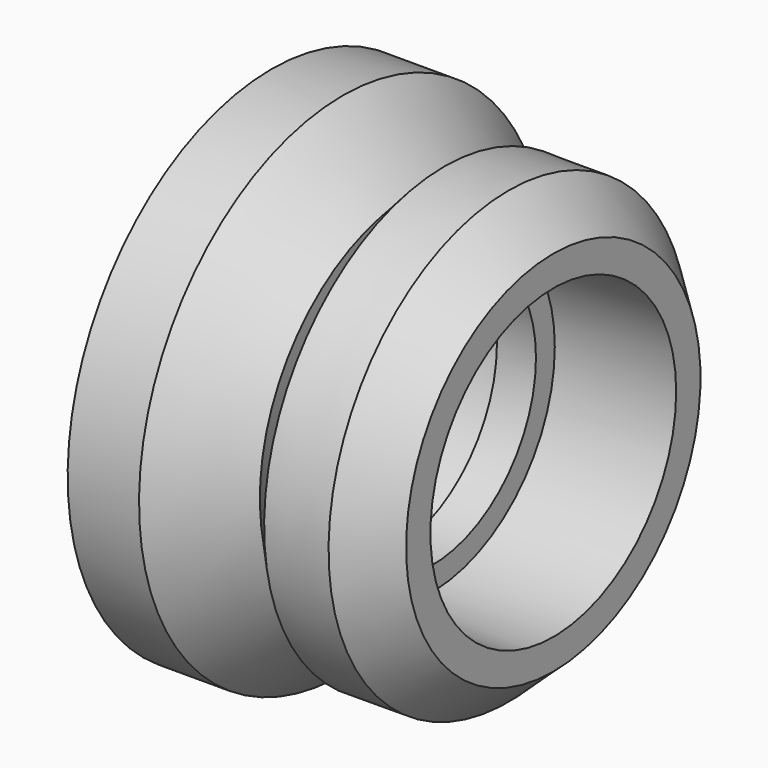
from build123d import *

# Parameters (mm, degrees)
F3_R      = 25.4
F3_R_2    = 24.8060859666
F4_DEPTH  = 41.275
F5_R      = 19.05
F6_DEPTH  = 41.276
F7_DEPTH  = 41.275
F8_DEPTH  = 41.276
F9_R      = 22.5
F9_R_2    = 19.05
F10_DEPTH = 17.78
F11_R     = 22.5
F11_R_2   = 19.05
F12_DEPTH = 17.78


with BuildPart() as f2:
    # F1 (on Front) → F2 (revolve)
    with BuildSketch(Plane.XZ):
        Polygon((-20.6375, 25.4), (0, 25.4), (20.6375, 25.4), (20.6375, 26.9582736391), (14.1049345586, 32.9880073607), (4.6889767244, 33.02), (0, 27.94), (-10.1817182737, 37.338), (-20.6375, 37.338), align=None)
    revolve(axis=Axis((0, 0, 0), (1, 0, 0)))

    # F3 (on face) → F4 (join, through all)
    with BuildSketch(Plane.YZ.offset(20.6375)):
        Circle(F3_R)
        Circle(F3_R_2, mode=Mode.SUBTRACT)
    extrude(amount=-F4_DEPTH)

    # F5 (on face) → F6 (cut, through all)
    with BuildSketch(Plane.YZ.offset(20.6375)):
        Circle(F5_R)
    extrude(amount=-F6_DEPTH, mode=Mode.SUBTRACT)

    # F3 (on face) → F7 (join, through all)
    with BuildSketch(Plane.YZ.offset(20.6375)):
        Circle(F3_R_2)
    extrude(amount=-F7_DEPTH)

    # F5 (on face) → F8 (cut, through all)
    with BuildSketch(Plane.YZ.offset(20.6375)):
        Circle(F5_R)
    extrude(amount=-F8_DEPTH, mode=Mode.SUBTRACT)

    # F9 (on face) → F10 (cut)
    with BuildSketch(Plane.YZ.offset(20.6375)):
        Circle(F9_R)
        Circle(F9_R_2, mode=Mode.SUBTRACT)
    extrude(amount=-F10_DEPTH, mode=Mode.SUBTRACT)

    # F11 (on face) → F12 (cut)
    with BuildSketch(Plane(origin=(-20.6375, 0, 0), x_dir=(0, -1, 0), z_dir=(-1, 0, 0))):
        Circle(F11_R)
        Circle(F11_R_2, mode=Mode.SUBTRACT)
    extrude(amount=-F12_DEPTH, mode=Mode.SUBTRACT)


solid = f2.part
